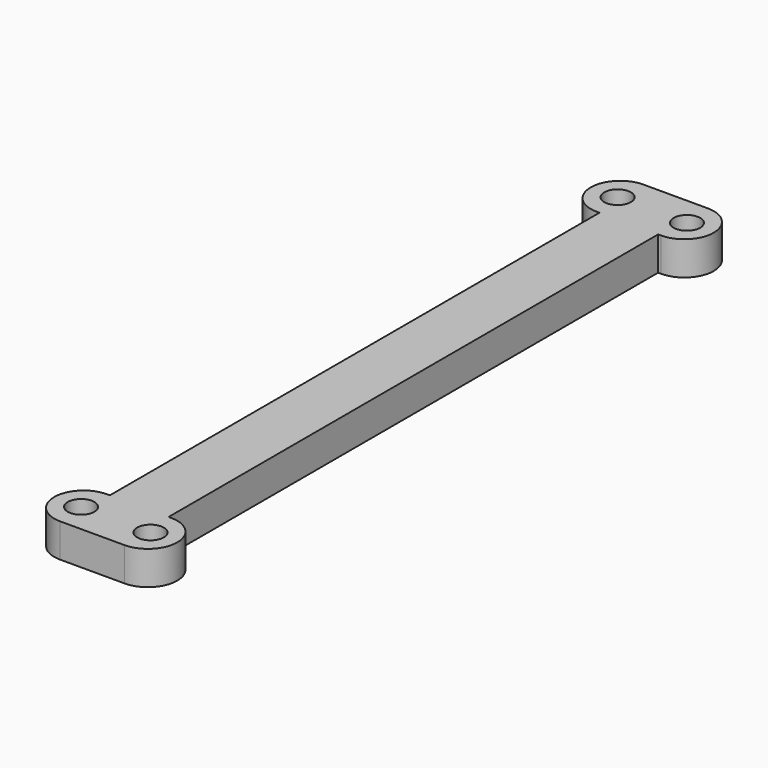
from build123d import *

# Parameters (mm, degrees)
SKETCH_R  = 1.58
PAD_DEPTH = 4


with BuildPart() as part:
    # Sketch → Pad (new body)
    with BuildSketch(Plane.XY):
        with BuildLine():
            Line((-3.48, 0), (-3.48, 36.3))
            Line((-3.48, 36.3), (-3.81555, 36.3))
            ThreePointArc((-3.81555, 43.26), (-7.29555, 39.78), (-3.81555, 36.3))
            Line((-3.81555, 43.26), (3.81555, 43.26))
            ThreePointArc((3.81555, 36.3), (7.29555, 39.78), (3.81555, 43.26))
            Line((3.48, 36.3), (3.81555, 36.3))
            Line((3.48, 0), (3.48, 36.3))
            Line((-3.48, 0), (3.48, 0))
        make_face()
        with Locations((-4.11555, 39.78)):
            Circle(SKETCH_R, mode=Mode.SUBTRACT)
        with Locations((4.11555, 39.78)):
            Circle(SKETCH_R, mode=Mode.SUBTRACT)
    pad = extrude(amount=PAD_DEPTH)

    # Mirrored: Pad across Sketch H_Axis
    add(pad.mirror(Plane.ZX))


solid = part.part
